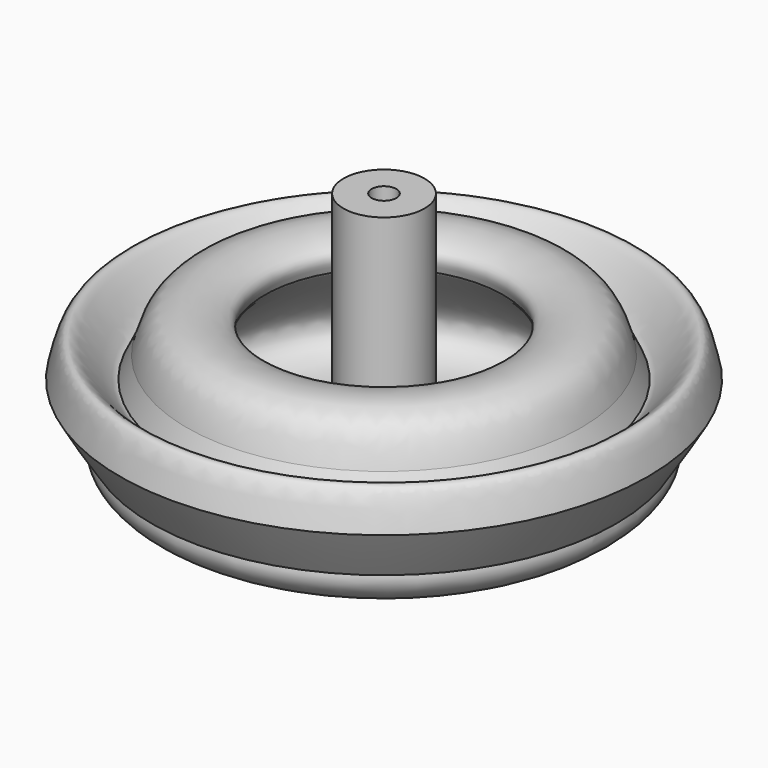
from build123d import *


with BuildPart() as f1:
    # F0 (on Front) → F1 (revolve)
    with BuildSketch(Plane.XZ):
        with BuildLine():
            Line((0, 41.0746522248), (0, 7.9867383465))
            Line((0, 7.9867383465), (2.3282913797, 7.9867383465))
            add(Edge.make_bspline(
                [(2.3282913797, 7.9867383465), (1.683546576, 12.0642206499), (-0.048407045, 22.9266199815), (21.1006658802, 9.0710488559), (31.4357652833, 6.2966487603), (57.9422988516, 13.4303586849), (56.3350245357, 20.8225678653)],
                knots=[0.0468604979, 0.0468604979, 0.0468604979, 0.0468604979, 0.1122857898, 0.2254872358, 0.3319998533, 0.46735285, 0.46735285, 0.46735285, 0.46735285], degree=3))
            add(Edge.make_bspline(
                [(56.3350245357, 20.8225678653), (54.4559864574, 29.4646785459), (30.1062707948, 42.7538128539), (28.9519242942, 41.9303774834)],
                knots=[0.46735285, 0.46735285, 0.46735285, 0.46735285, 0.6255918215, 0.6255918215, 0.6255918215, 0.6255918215], degree=3))
            add(Edge.make_bspline(
                [(28.9519242942, 41.9303774834), (27.9733087415, 41.2322970891), (57.0658823337, 21.1336473921), (29.1371612272, 10.7424995802), (9.2548354982, 20.7042067926), (9.8408032209, 24.2454558611)],
                knots=[0.6255918215, 0.6255918215, 0.6255918215, 0.6255918215, 0.7597414192, 0.8743008922, 1, 1, 1, 1], degree=3))
            Line((9.8408032209, 24.2454558611), (9.8408032209, 73.0216056108))
            Line((9.8408032209, 73.0216056108), (2.9950279277, 73.0216056108))
            Line((2.9950279277, 73.0216056108), (2.9950279277, 41.0746522248))
            Line((2.9950279277, 41.0746522248), (0, 41.0746522248))
        make_face()
        with BuildLine():
            add(Edge.make_bspline(
                [(56.3350245357, 20.8225678653), (54.4559864574, 29.4646785459), (30.1062707948, 42.7538128539), (28.9519242942, 41.9303774834)],
                knots=[0.46735285, 0.46735285, 0.46735285, 0.46735285, 0.6255918215, 0.6255918215, 0.6255918215, 0.6255918215], degree=3))
            add(Edge.make_bspline(
                [(56.3350245357, 20.8225678653), (57.6868738982, 22.9089815495), (60.376949934, 27.0607839681), (62.8207974176, 31.2761467429), (64.0365332721, 33.3731547188)],
                knots=[0, 0, 0, 0, 0.5025320268, 1, 1, 1, 1], degree=3))
            add(Edge.make_bspline(
                [(64.0365332721, 33.3731547188), (62.9388633352, 38.1795471886), (60.6004932142, 48.4186219449), (52.4947398255, 33.3494800996), (50.3386337009, 33.3731547188)],
                knots=[0, 0, 0, 0, 0.1905130062, 0.4058505261, 0.4058505261, 0.4058505261, 0.4058505261], degree=3))
            add(Edge.make_bspline(
                [(50.3386337009, 33.3731547188), (49.1739788634, 33.3859429389), (48.6350943575, 35.7385399644), (47.8574357913, 38.5663602189)],
                knots=[0.4058505261, 0.4058505261, 0.4058505261, 0.4058505261, 0.5221684946, 0.5221684946, 0.5221684946, 0.5221684946], degree=3))
            add(Edge.make_bspline(
                [(47.8574357913, 38.5663602189), (47.0953573865, 41.3375259238), (44.0616615568, 51.214021577), (26.5275892133, 48.0885755444), (28.3172861875, 43.542459571), (28.9519242942, 41.9303774834)],
                knots=[0.5221684946, 0.5221684946, 0.5221684946, 0.5221684946, 0.6361560667, 0.8709785912, 1, 1, 1, 1], degree=3))
        make_face()
        with BuildLine():
            Line((50.3386337009, 33.3731547188), (47.8574357913, 38.5663602189))
            add(Edge.make_bspline(
                [(50.3386337009, 33.3731547188), (49.1739788634, 33.3859429389), (48.6350943575, 35.7385399644), (47.8574357913, 38.5663602189)],
                knots=[0.4058505261, 0.4058505261, 0.4058505261, 0.4058505261, 0.5221684946, 0.5221684946, 0.5221684946, 0.5221684946], degree=3))
        make_face()
    revolve(axis=Axis((0, 0, 24.5306952856), (0, 0, 1)))


with BuildPart() as f1b:
    # F0 (on Front) → F1, piece 2 (revolve)
    with BuildSketch(Plane.XZ):
        with BuildLine():
            add(Edge.make_bspline(
                [(2.9950279277, 0), (3.1046784704, 0.8761971235), (3.0867650924, 1.9056499459), (2.9950279277, 3.0205504788)],
                knots=[0, 0, 0, 0, 0.0195982234, 0.0195982234, 0.0195982234, 0.0195982234], degree=3))
            Line((2.9950279277, 3.0205504788), (2.9950279277, 0))
        make_face()
    revolve(axis=Axis((0, 0, 24.5306952856), (0, 0, 1)))


with BuildPart() as f1c:
    # F0 (on Front) → F1, piece 3 (revolve)
    with BuildSketch(Plane.XZ):
        with BuildLine():
            Line((2.9950279277, 7.9867383465), (2.3282913797, 7.9867383465))
            add(Edge.make_bspline(
                [(2.9950279277, 3.0205504788), (2.8674161681, 4.5714423027), (2.5969521584, 6.2876791764), (2.3282913797, 7.9867383465)],
                knots=[0.0195982234, 0.0195982234, 0.0195982234, 0.0195982234, 0.0468604979, 0.0468604979, 0.0468604979, 0.0468604979], degree=3))
            Line((2.9950279277, 3.0205504788), (2.9950279277, 7.9867383465))
        make_face()
    revolve(axis=Axis((0, 0, 24.5306952856), (0, 0, 1)))


solid = Compound([f1.part, f1b.part, f1c.part])
